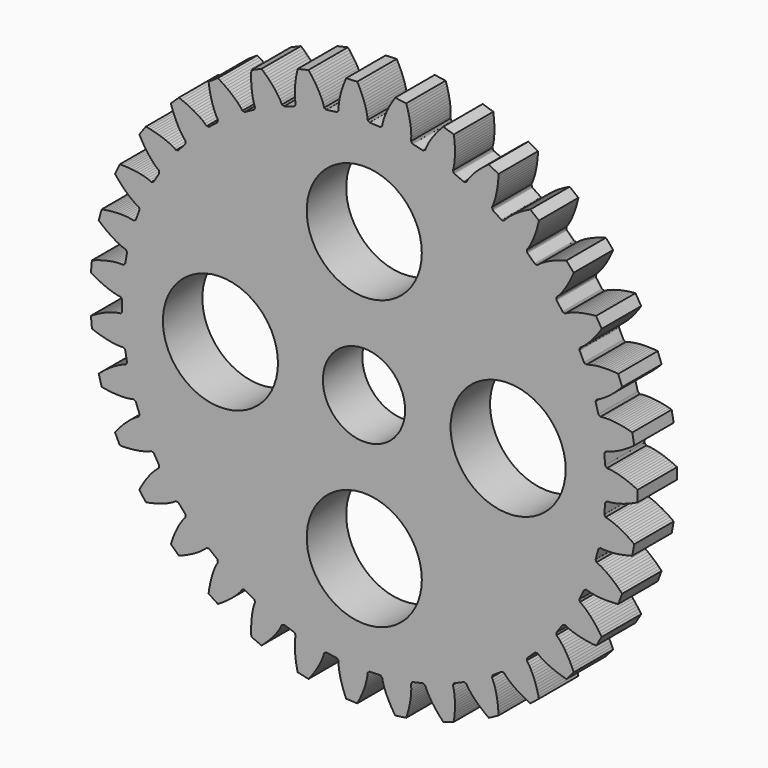
from build123d import *

# Parameters (mm, degrees)
F1_DEPTH = 3
F2_R     = 3.5
F3_DEPTH = 12.5


with BuildPart() as f1:
    # F0 (on Front) → F1 (new body)
    with BuildSketch(Plane.XZ):
        Polygon((14.600396, -1.623756), (14.655398, -1.012626), (14.660725, -0.991337), (14.673272, -0.970848), (14.693007, -0.951451), (14.719886, -0.933436), (14.755312, -0.88429), (14.895668, -0.879786), (15.03533, -0.864618), (15.174078, -0.842552), (15.311833, -0.814945), (15.448554, -0.782592), (15.584211, -0.746031), (15.718785, -0.705663), (15.852261, -0.661799), (15.984629, -0.614695), (16.115879, -0.564561), (16.246006, -0.511577), (16.375004, -0.455901), (16.502868, -0.397669), (16.629597, -0.337003), (16.629597, 0.337003), (16.502868, 0.397669), (16.375004, 0.455901), (16.246006, 0.511577), (16.115879, 0.564561), (15.984629, 0.614695), (15.852261, 0.661799), (15.718785, 0.705663), (15.584211, 0.746031), (15.448554, 0.782592), (15.311833, 0.814945), (15.174078, 0.842552), (15.03533, 0.864618), (14.895668, 0.879786), (14.755312, 0.88429), (14.719886, 0.933436), (14.693007, 0.951451), (14.673272, 0.970848), (14.660725, 0.991337), (14.655398, 1.012626), (14.600396, 1.623756), (14.601835, 1.645654), (14.610523, 1.668054), (14.626477, 1.690663), (14.649707, 1.713189), (14.675788, 1.76787), (14.813084, 1.797364), (14.947794, 1.837225), (15.080372, 1.883711), (15.210984, 1.935471), (15.339731, 1.991717), (15.466679, 2.051913), (15.591882, 2.115662), (15.715382, 2.182653), (15.837211, 2.252636), (15.957401, 2.3254), (16.075976, 2.400767), (16.192959, 2.478582), (16.308371, 2.558709), (16.422231, 2.641028), (16.301882, 3.304203), (16.166358, 3.341265), (16.030151, 3.375731), (15.893285, 3.407479), (15.755788, 3.436376), (15.617695, 3.462269), (15.479044, 3.484981), (15.339881, 3.504306), (15.200261, 3.519997), (15.060256, 3.531748), (14.919956, 3.539169), (14.779485, 3.541734), (14.639027, 3.538672), (14.498901, 3.528658), (14.359996, 3.508028), (14.316364, 3.550059), (14.2867, 3.562985), (14.263819, 3.578547), (14.247815, 3.596466), (14.238773, 3.616462), (14.075533, 4.207949), (14.073039, 4.229753), (14.077587, 4.253344), (14.089248, 4.278438), (14.108083, 4.30475), (14.123981, 4.363209), (14.253804, 4.416744), (14.379232, 4.480018), (14.501379, 4.54943), (14.62065, 4.62368), (14.737284, 4.70201), (14.851444, 4.783906), (14.963253, 4.868987), (15.072806, 4.956953), (15.180181, 5.047565), (15.285447, 5.14062), (15.388659, 5.235948), (15.489868, 5.333401), (15.589118, 5.432848), (15.686449, 5.534175), (15.44962, 6.165203), (15.309656, 6.177471), (15.169484, 6.187062), (15.029148, 6.193861), (14.888702, 6.197743), (14.748205, 6.198562), (14.607726, 6.196153), (14.467349, 6.190319), (14.327171, 6.180827), (14.187318, 6.16739), (14.047947, 6.149641), (13.909276, 6.127083), (13.771622, 6.09899), (13.635535, 6.064116), (13.502546, 6.019015), (13.452111, 6.05258), (13.420616, 6.060002), (13.395324, 6.071228), (13.376377, 6.086001), (13.36391, 6.104062), (13.097679, 6.656896), (13.091332, 6.677904), (13.091595, 6.701928), (13.098587, 6.728701), (13.112421, 6.757952), (13.117626, 6.818312), (13.235804, 6.894167), (13.347918, 6.97882), (13.455708, 7.068926), (13.559804, 7.16328), (13.660578, 7.261177), (13.75828, 7.362141), (13.8531, 7.465819), (13.945185, 7.571933), (14.034656, 7.680261), (14.121614, 7.790617), (14.206146, 7.902842), (14.288328, 8.0168), (14.368226, 8.132371), (14.4459, 8.249448), (14.100203, 8.828049), (13.960298, 8.815128), (13.820665, 8.799535), (13.681371, 8.781168), (13.542489, 8.75991), (13.404103, 8.735629), (13.266313, 8.708175), (13.129232, 8.677369), (12.993003, 8.643), (12.857796, 8.604808), (12.723834, 8.562458), (12.591419, 8.515501), (12.460994, 8.463281), (12.333321, 8.404669), (12.210522, 8.336547), (12.154904, 8.360566), (12.12259, 8.362245), (12.0957, 8.368775), (12.07442, 8.379928), (12.058928, 8.395471), (11.698264, 8.891884), (11.688268, 8.911421), (11.684236, 8.935106), (11.686336, 8.962698), (11.694725, 8.993949), (11.689068, 9.054267), (11.791802, 9.150005), (11.886999, 9.253317), (11.976967, 9.361222), (12.062544, 9.472646), (12.144218, 9.586964), (12.222322, 9.703751), (12.297106, 9.822693), (12.368764, 9.943544), (12.437454, 10.066107), (12.50331, 10.190217), (12.566445, 10.315732), (12.626958, 10.442533), (12.684936, 10.570513), (12.740457, 10.699578), (12.297002, 11.207153), (12.161652, 11.169459), (12.027048, 11.129185), (11.893272, 11.086241), (11.760417, 11.040526), (11.628591, 10.991925), (11.497917, 10.940309), (11.368541, 10.885522), (11.240637, 10.827381), (11.114423, 10.765659), (10.990176, 10.70007), (10.868273, 10.630225), (10.749267, 10.555555), (10.634112, 10.475088), (10.525451, 10.386134), (10.466438, 10.399837), (10.434343, 10.395719), (10.406719, 10.397342), (10.38379, 10.404516), (10.365771, 10.417044), (9.922264, 10.84108), (9.908941, 10.858518), (9.900745, 10.881103), (9.897885, 10.908626), (9.900558, 10.940873), (9.884222, 10.999212), (9.968211, 11.111755), (10.043431, 11.230404), (10.112686, 11.35264), (10.176992, 11.477554), (10.236941, 11.604618), (10.292937, 11.733474), (10.345281, 11.863858), (10.394209, 11.995562), (10.439911, 12.12842), (10.482548, 12.262294), (10.522256, 12.397066), (10.559155, 12.532634), (10.59335, 12.66891), (10.624934, 12.805814), (10.097974, 13.226051), (9.97153, 13.164795), (9.84628, 13.101133), (9.722322, 13.034992), (9.599765, 12.96629), (9.478735, 12.894932), (9.359377, 12.820812), (9.241863, 12.743805), (9.126396, 12.66376), (9.013231, 12.580494), (8.902692, 12.493774), (8.795219, 12.403285), (8.691459, 12.308565), (8.592523, 12.20883), (8.501491, 12.101903), (8.440979, 12.104848), (8.410135, 12.095066), (8.382666, 12.091731), (8.358824, 12.094695), (8.338858, 12.103805), (7.826764, 12.441835), (7.810541, 12.456614), (7.798445, 12.477372), (7.790715, 12.503942), (7.787588, 12.536148), (7.761097, 12.590632), (7.823641, 12.716364), (7.876467, 12.846537), (7.922783, 12.979174), (7.963751, 13.113563), (8.000049, 13.24929), (8.032137, 13.386074), (8.060359, 13.523708), (8.084983, 13.662033), (8.106228, 13.800916), (8.124276, 13.940252), (8.139282, 14.079948), (8.151381, 14.219926), (8.160693, 14.360117), (8.167324, 14.500461), (7.573797, 14.819852), (7.460323, 14.737003), (7.348453, 14.652), (7.238297, 14.564789), (7.129977, 14.475307), (7.023633, 14.383485), (6.919428, 14.289244), (6.817552, 14.192491), (6.718234, 14.093115), (6.621755, 13.990981), (6.528477, 13.885917), (6.438889, 13.777692), (6.353709, 13.665968), (6.274171, 13.55017), (6.203694, 13.428707), (6.143629, 13.4208), (6.115028, 13.405667), (6.088595, 13.397481), (6.064607, 13.396141), (6.043336, 13.401538), (5.479114, 13.642699), (5.460512, 13.654343), (5.444904, 13.672608), (5.432555, 13.697371), (5.423727, 13.728501), (5.387933, 13.77738), (5.427022, 13.912258), (5.455755, 14.049772), (5.477644, 14.188548), (5.493958, 14.328092), (5.505437, 14.468119), (5.512585, 14.608434), (5.515778, 14.748896), (5.515308, 14.889394), (5.511413, 15.029839), (5.504291, 15.170158), (5.494112, 15.310289), (5.481024, 15.450178), (5.465154, 15.589779), (5.446619, 15.729052), (4.805601, 15.937331), (4.708743, 15.835552), (4.613849, 15.73194), (4.521035, 15.626461), (4.430433, 15.519076), (4.342194, 15.409742), (4.256491, 15.298409), (4.173528, 15.185019), (4.09355, 15.069507), (4.016858, 14.951787), (3.943839, 14.831756), (3.875015, 14.709274), (3.811154, 14.584136), (3.75357, 14.455996), (3.705914, 14.323901), (3.648226, 14.305396), (3.622787, 14.2854), (3.598241, 14.272625), (3.574878, 14.267023), (3.552984, 14.268536), (2.954768, 14.405075), (2.934387, 14.413211), (2.915768, 14.428395), (2.899195, 14.450555), (2.884951, 14.479609), (2.841005, 14.521311), (2.855382, 14.661001), (2.859099, 14.801436), (2.855857, 14.94189), (2.846992, 15.082104), (2.833284, 15.22193), (2.815264, 15.361267), (2.793325, 15.500042), (2.767775, 15.638198), (2.738865, 15.775691), (2.706803, 15.912483), (2.671766, 16.048544), (2.63391, 16.183848), (2.593368, 16.318372), (2.550263, 16.452097), (1.882356, 16.542571), (1.805229, 16.425133), (1.73036, 16.306242), (1.657872, 16.185886), (1.587901, 16.064049), (1.520602, 15.940716), (1.456156, 15.815869), (1.394772, 15.689489), (1.336705, 15.561552), (1.282265, 15.43203), (1.231852, 15.30089), (1.186004, 15.168087), (1.145513, 15.033557), (1.111735, 14.897194), (1.088432, 14.758713), (1.034975, 14.730205), (1.013515, 14.705988), (0.991644, 14.689035), (0.969657, 14.679352), (0.947845, 14.676931), (0.334863, 14.70446), (0.313356, 14.708826), (0.292325, 14.720442), (0.272062, 14.739286), (0.252859, 14.76533), (0.202173, 14.798515), (0.191376, 14.938528), (0.169958, 15.077369), (0.141689, 15.214987), (0.10793, 15.351365), (0.069475, 15.486496), (0.026865, 15.620377), (-0.0195, 15.753004), (-0.069308, 15.884378), (-0.122304, 16.014499), (-0.178276, 16.143368), (-0.237044, 16.270986), (-0.298452, 16.397357), (-0.362362, 16.52248), (-0.428652, 16.646359), (-1.10198, 16.61612), (-1.156898, 16.486797), (-1.209335, 16.356449), (-1.259168, 16.225083), (-1.30626, 16.09271), (-1.350455, 15.959342), (-1.391574, 15.824995), (-1.429405, 15.689685), (-1.463695, 15.553435), (-1.494132, 15.416275), (-1.520319, 15.27824), (-1.541718, 15.139385), (-1.557537, 14.999787), (-1.566423, 14.859585), (-1.564626, 14.719168), (-1.612133, 14.681573), (-1.628924, 14.653913), (-1.647416, 14.633328), (-1.667321, 14.619874), (-1.68835, 14.613598), (-2.296397, 14.531232), (-2.318338, 14.531688), (-2.341105, 14.539361), (-2.364407, 14.554285), (-2.387952, 14.576481), (-2.443749, 14.600083), (-2.479372, 14.735917), (-2.525237, 14.868703), (-2.577624, 14.999062), (-2.635192, 15.127221), (-2.697158, 15.253314), (-2.762988, 15.377434), (-2.83229, 15.499651), (-2.904755, 15.620021), (-2.980133, 15.738588), (-3.058216, 15.855391), (-3.138827, 15.970466), (-3.221812, 16.08384), (-3.307037, 16.195541), (-3.394381, 16.305593), (-4.051489, 16.155612), (-4.082434, 16.018562), (-4.110753, 15.880945), (-4.136329, 15.742793), (-4.159028, 15.604138), (-4.178699, 15.465023), (-4.195168, 15.325492), (-4.208231, 15.185602), (-4.217641, 15.045419), (-4.223099, 14.905028), (-4.224218, 14.764536), (-4.220479, 14.624091), (-4.211118, 14.483912), (-4.194827, 14.344376), (-4.167986, 14.206537), (-4.208017, 14.161063), (-4.2196, 14.130849), (-4.234119, 14.107293), (-4.251302, 14.090501), (-4.270872, 14.080571), (-4.854441, 13.890958), (-4.87611, 13.887489), (-4.899881, 13.890974), (-4.925474, 13.901497), (-4.952603, 13.919132), (-5.011718, 13.932392), (-5.071023, 14.059683), (-5.139861, 14.182145), (-5.214683, 14.301055), (-5.294209, 14.416875), (-5.377693, 14.529877), (-5.464629, 14.640248), (-5.554639, 14.748127), (-5.647433, 14.853623), (-5.74277, 14.956825), (-5.840455, 15.05781), (-5.940318, 15.156641), (-6.042213, 15.253376), (-6.146013, 15.348064), (-6.251604, 15.440751), (-6.871372, 15.17585), (-6.877348, 15.035477), (-6.88064, 14.895015), (-6.881136, 14.754516), (-6.878713, 14.614037), (-6.873228, 14.473644), (-6.864518, 14.333415), (-6.852392, 14.193441), (-6.836621, 14.053831), (-6.816923, 13.914721), (-6.792939, 13.776287), (-6.764182, 13.638767), (-6.729942, 13.502512), (-6.688998, 13.368127), (-6.637976, 13.237296), (-6.669244, 13.185405), (-6.675246, 13.153609), (-6.685325, 13.127839), (-6.699234, 13.108248), (-6.716716, 13.094983), (-7.25705, 12.804218), (-7.277752, 12.796935), (-7.301763, 12.796119), (-7.328823, 12.801903), (-7.358666, 12.814411), (-7.419198, 12.816902), (-7.500279, 12.931558), (-7.589877, 13.039761), (-7.684728, 13.1434), (-7.783657, 13.243159), (-7.885977, 13.339438), (-7.991223, 13.432513), (-8.09905, 13.522586), (-8.209188, 13.609818), (-8.321422, 13.694338), (-8.435568, 13.776258), (-8.551473, 13.855669), (-8.669003, 13.932656), (-8.788042, 14.007288), (-8.908486, 14.079632), (-9.470994, 13.708324), (-9.45181, 13.569139), (-9.429969, 13.430347), (-9.40537, 13.292017), (-9.377902, 13.154228), (-9.347437, 13.017071), (-9.313829, 12.880651), (-9.276904, 12.745091), (-9.236458, 12.61054), (-9.192238, 12.477183), (-9.14392, 12.345257), (-9.091071, 12.215081), (-9.033051, 12.08713), (-8.96877, 11.962216), (-8.895207, 11.842597), (-8.916707, 11.785957), (-8.916935, 11.7536), (-8.922251, 11.726444), (-8.932438, 11.704686), (-8.947271, 11.688512), (-9.427003, 11.305939), (-9.446072, 11.295076), (-9.469552, 11.289987), (-9.49721, 11.290846), (-9.528806, 11.297824), (-9.58881, 11.289467), (-9.689061, 11.387803), (-9.796539, 11.478269), (-9.908372, 11.563305), (-10.023523, 11.643797), (-10.141391, 11.720259), (-10.261564, 11.793045), (-10.383741, 11.862418), (-10.507686, 11.928581), (-10.633207, 11.991704), (-10.760146, 12.051925), (-10.888368, 12.109365), (-11.017756, 12.164128), (-11.148209, 12.216306), (-11.279634, 12.265981), (-11.766803, 11.8002), (-11.723075, 11.666678), (-11.676802, 11.534016), (-11.627899, 11.402302), (-11.576269, 11.271632), (-11.521804, 11.142119), (-11.464376, 11.013892), (-11.40384, 10.887104), (-11.340019, 10.761937), (-11.272698, 10.638619), (-11.2016, 10.51744), (-11.126356, 10.398793), (-11.046422, 10.283258), (-10.96087, 10.171829), (-10.867131, 10.067267), (-10.878171, 10.007699), (-10.872618, 9.975821), (-10.873, 9.948153), (-10.879138, 9.924925), (-10.890845, 9.906362), (-11.294556, 9.444278), (-11.311379, 9.430185), (-11.333573, 9.420985), (-11.36094, 9.416892), (-11.393275, 9.418116), (-11.450822, 9.399179), (-11.56702, 9.478034), (-11.688925, 9.547855), (-11.814144, 9.611557), (-11.941817, 9.670193), (-12.071443, 9.724381), (-12.202682, 9.77454), (-12.335283, 9.820982), (-12.469049, 9.863951), (-12.603824, 9.903646), (-12.739476, 9.940234), (-12.875894, 9.973856), (-13.012981, 10.004636), (-13.150654, 10.032682), (-13.288837, 10.058092), (-13.685009, 9.512809), (-13.618141, 9.38924), (-13.548925, 9.266973), (-13.477289, 9.146107), (-13.403157, 9.026756), (-13.326442, 8.909049), (-13.247041, 8.793137), (-13.164839, 8.679196), (-13.079694, 8.567436), (-12.991435, 8.458121), (-12.899843, 8.351584), (-12.804623, 8.248279), (-12.705344, 8.148873), (-12.60127, 8.054511), (-12.490367, 7.968368), (-12.490594, 7.907785), (-12.479438, 7.877411), (-12.474874, 7.850119), (-12.476766, 7.826168), (-12.48497, 7.805814), (-12.799685, 7.27907), (-12.813721, 7.2622), (-12.833916, 7.249184), (-12.860112, 7.240271), (-12.892145, 7.235702), (-12.945387, 7.206793), (-13.073798, 7.263634), (-13.20621, 7.310565), (-13.340791, 7.350885), (-13.476883, 7.385782), (-13.614101, 7.415953), (-13.752187, 7.441872), (-13.890949, 7.463891), (-14.030239, 7.482285), (-14.169936, 7.497277), (-14.309941, 7.509056), (-14.45017, 7.517779), (-14.59055, 7.523586), (-14.731018, 7.526599), (-14.871518, 7.526927), (-15.163958, 6.919668), (-15.076102, 6.810025), (-14.986166, 6.702081), (-14.8941, 6.595949), (-14.799848, 6.491752), (-14.703348, 6.389636), (-14.604527, 6.289764), (-14.5033, 6.192331), (-14.399569, 6.097571), (-14.293209, 6.005771), (-14.184066, 5.917301), (-14.07193, 5.832659), (-13.956497, 5.752577), (-13.837247, 5.678315), (-13.712745, 5.613358), (-13.702151, 5.553709), (-13.68575, 5.525815), (-13.676386, 5.499776), (-13.673971, 5.475873), (-13.678409, 5.45438), (-13.894013, 4.879907), (-13.904811, 4.860802), (-13.922357, 4.844389), (-13.946541, 4.830942), (-13.977244, 4.820726), (-14.024467, 4.782776), (-14.160964, 4.815774), (-14.299628, 4.838308), (-14.439246, 4.853949), (-14.579382, 4.863986), (-14.719783, 4.869171), (-14.860277, 4.870017), (-15.000741, 4.866905), (-15.141077, 4.860132), (-15.281206, 4.84994), (-15.421064, 4.83653), (-15.560597, 4.820074), (-15.699758, 4.800722), (-15.838506, 4.778606), (-15.976807, 4.753841), (-16.156118, 4.104123), (-16.050095, 4.01193), (-15.94233, 3.921779), (-15.832793, 3.833791), (-15.721452, 3.748099), (-15.608269, 3.664854), (-15.493203, 3.584232), (-15.376206, 3.50644), (-15.257221, 3.431725), (-15.136179, 3.360392), (-15.012993, 3.292831), (-14.887546, 3.229572), (-14.759669, 3.171389), (-14.629075, 3.119613), (-14.494975, 3.077931), (-14.4739, 3.021131), (-14.452783, 2.996614), (-14.43892, 2.972666), (-14.432275, 2.949578), (-14.432804, 2.927639), (-14.542367, 2.323899), (-14.54958, 2.303173), (-14.563914, 2.283892), (-14.585308, 2.266342), (-14.613693, 2.250808), (-14.653382, 2.205036), (-14.793577, 2.213131), (-14.934037, 2.210544), (-15.074204, 2.201004), (-15.213879, 2.185857), (-15.352949, 2.165889), (-15.491337, 2.141636), (-15.628988, 2.113493), (-15.765859, 2.081771), (-15.901916, 2.046721), (-16.037132, 2.008554), (-16.171485, 1.967448), (-16.304954, 1.923559), (-16.437524, 1.877023), (-16.56918, 1.827962), (-16.629597, 1.156669), (-16.508817, 1.084888), (-16.386687, 1.015428), (-16.2632, 0.948413), (-16.138346, 0.883978), (-16.012118, 0.822281), (-15.884506, 0.763501), (-15.755498, 0.707849), (-15.625085, 0.65558), (-15.493251, 0.607006), (-15.359981, 0.562527), (-15.225255, 0.522684), (-15.089044, 0.488269), (-14.951303, 0.460643), (-14.811916, 0.443576), (-14.781038, 0.391452), (-14.755883, 0.3711), (-14.737966, 0.350012), (-14.727306, 0.328481), (-14.723909, 0.3068), (-14.723909, -0.3068), (-14.727306, -0.328481), (-14.737966, -0.350012), (-14.755883, -0.3711), (-14.781038, -0.391452), (-14.811916, -0.443576), (-14.951303, -0.460643), (-15.089044, -0.488269), (-15.225255, -0.522684), (-15.359981, -0.562527), (-15.493251, -0.607006), (-15.625085, -0.65558), (-15.755498, -0.707849), (-15.884506, -0.763501), (-16.012118, -0.822281), (-16.138346, -0.883978), (-16.2632, -0.948413), (-16.386687, -1.015428), (-16.508817, -1.084888), (-16.629597, -1.156669), (-16.56918, -1.827962), (-16.437524, -1.877023), (-16.304954, -1.923559), (-16.171485, -1.967448), (-16.037132, -2.008554), (-15.901916, -2.046721), (-15.765859, -2.081771), (-15.628988, -2.113493), (-15.491337, -2.141636), (-15.352949, -2.165889), (-15.213879, -2.185857), (-15.074204, -2.201004), (-14.934037, -2.210544), (-14.793577, -2.213131), (-14.653382, -2.205036), (-14.613693, -2.250808), (-14.585308, -2.266342), (-14.563914, -2.283892), (-14.54958, -2.303173), (-14.542367, -2.323899), (-14.432804, -2.927639), (-14.432275, -2.949578), (-14.43892, -2.972666), (-14.452783, -2.996614), (-14.4739, -3.021131), (-14.494975, -3.077931), (-14.629075, -3.119613), (-14.759669, -3.171389), (-14.887546, -3.229572), (-15.012993, -3.292831), (-15.136179, -3.360392), (-15.257221, -3.431725), (-15.376206, -3.50644), (-15.493203, -3.584232), (-15.608269, -3.664854), (-15.721452, -3.748099), (-15.832793, -3.833791), (-15.94233, -3.921779), (-16.050095, -4.01193), (-16.156118, -4.104123), (-15.976807, -4.753841), (-15.838506, -4.778606), (-15.699758, -4.800722), (-15.560597, -4.820074), (-15.421064, -4.83653), (-15.281206, -4.84994), (-15.141077, -4.860132), (-15.000741, -4.866905), (-14.860277, -4.870017), (-14.719783, -4.869171), (-14.579382, -4.863986), (-14.439246, -4.853949), (-14.299628, -4.838308), (-14.160964, -4.815774), (-14.024467, -4.782776), (-13.977244, -4.820726), (-13.946541, -4.830942), (-13.922357, -4.844389), (-13.904811, -4.860802), (-13.894013, -4.879907), (-13.678409, -5.45438), (-13.673971, -5.475873), (-13.676386, -5.499776), (-13.68575, -5.525815), (-13.702151, -5.553709), (-13.712745, -5.613358), (-13.837247, -5.678315), (-13.956497, -5.752577), (-14.07193, -5.832659), (-14.184066, -5.917301), (-14.293209, -6.005771), (-14.399569, -6.097571), (-14.5033, -6.192331), (-14.604527, -6.289764), (-14.703348, -6.389636), (-14.799848, -6.491752), (-14.8941, -6.595949), (-14.986166, -6.702081), (-15.076102, -6.810025), (-15.163958, -6.919668), (-14.871518, -7.526927), (-14.731018, -7.526599), (-14.59055, -7.523586), (-14.45017, -7.517779), (-14.309941, -7.509056), (-14.169936, -7.497277), (-14.030239, -7.482285), (-13.890949, -7.463891), (-13.752187, -7.441872), (-13.614101, -7.415953), (-13.476883, -7.385782), (-13.340791, -7.350885), (-13.20621, -7.310565), (-13.073798, -7.263634), (-12.945387, -7.206793), (-12.892145, -7.235702), (-12.860112, -7.240271), (-12.833916, -7.249184), (-12.813721, -7.2622), (-12.799685, -7.27907), (-12.48497, -7.805814), (-12.476766, -7.826168), (-12.474874, -7.850119), (-12.479438, -7.877411), (-12.490594, -7.907785), (-12.490367, -7.968368), (-12.60127, -8.054511), (-12.705344, -8.148873), (-12.804623, -8.248279), (-12.899843, -8.351584), (-12.991435, -8.458121), (-13.079694, -8.567436), (-13.164839, -8.679196), (-13.247041, -8.793137), (-13.326442, -8.909049), (-13.403157, -9.026756), (-13.477289, -9.146107), (-13.548925, -9.266973), (-13.618141, -9.38924), (-13.685009, -9.512809), (-13.288837, -10.058092), (-13.150654, -10.032682), (-13.012981, -10.004636), (-12.875894, -9.973856), (-12.739476, -9.940234), (-12.603824, -9.903646), (-12.469049, -9.863951), (-12.335283, -9.820982), (-12.202682, -9.77454), (-12.071443, -9.724381), (-11.941817, -9.670193), (-11.814144, -9.611557), (-11.688925, -9.547855), (-11.56702, -9.478034), (-11.450822, -9.399179), (-11.393275, -9.418116), (-11.36094, -9.416892), (-11.333573, -9.420985), (-11.311379, -9.430185), (-11.294556, -9.444278), (-10.890845, -9.906362), (-10.879138, -9.924925), (-10.873, -9.948153), (-10.872618, -9.975821), (-10.878171, -10.007699), (-10.867131, -10.067267), (-10.96087, -10.171829), (-11.046422, -10.283258), (-11.126356, -10.398793), (-11.2016, -10.51744), (-11.272698, -10.638619), (-11.340019, -10.761937), (-11.40384, -10.887104), (-11.464376, -11.013892), (-11.521804, -11.142119), (-11.576269, -11.271632), (-11.627899, -11.402302), (-11.676802, -11.534016), (-11.723075, -11.666678), (-11.766803, -11.8002), (-11.279634, -12.265981), (-11.148209, -12.216306), (-11.017756, -12.164128), (-10.888368, -12.109365), (-10.760146, -12.051925), (-10.633207, -11.991704), (-10.507686, -11.928581), (-10.383741, -11.862418), (-10.261564, -11.793045), (-10.141391, -11.720259), (-10.023523, -11.643797), (-9.908372, -11.563305), (-9.796539, -11.478269), (-9.689061, -11.387803), (-9.58881, -11.289467), (-9.528806, -11.297824), (-9.49721, -11.290846), (-9.469552, -11.289987), (-9.446072, -11.295076), (-9.427003, -11.305939), (-8.947271, -11.688512), (-8.932438, -11.704686), (-8.922251, -11.726444), (-8.916935, -11.7536), (-8.916707, -11.785957), (-8.895207, -11.842597), (-8.96877, -11.962216), (-9.033051, -12.08713), (-9.091071, -12.215081), (-9.14392, -12.345257), (-9.192238, -12.477183), (-9.236458, -12.61054), (-9.276904, -12.745091), (-9.313829, -12.880651), (-9.347437, -13.017071), (-9.377902, -13.154228), (-9.40537, -13.292017), (-9.429969, -13.430347), (-9.45181, -13.569139), (-9.470994, -13.708324), (-8.908486, -14.079632), (-8.788042, -14.007288), (-8.669003, -13.932656), (-8.551473, -13.855669), (-8.435568, -13.776258), (-8.321422, -13.694338), (-8.209188, -13.609818), (-8.09905, -13.522586), (-7.991223, -13.432513), (-7.885977, -13.339438), (-7.783657, -13.243159), (-7.684728, -13.1434), (-7.589877, -13.039761), (-7.500279, -12.931558), (-7.419198, -12.816902), (-7.358666, -12.814411), (-7.328823, -12.801903), (-7.301763, -12.796119), (-7.277752, -12.796935), (-7.25705, -12.804218), (-6.716716, -13.094983), (-6.699234, -13.108248), (-6.685325, -13.127839), (-6.675246, -13.153609), (-6.669244, -13.185405), (-6.637976, -13.237296), (-6.688998, -13.368127), (-6.729942, -13.502512), (-6.764182, -13.638767), (-6.792939, -13.776287), (-6.816923, -13.914721), (-6.836621, -14.053831), (-6.852392, -14.193441), (-6.864518, -14.333415), (-6.873228, -14.473644), (-6.878713, -14.614037), (-6.881136, -14.754516), (-6.88064, -14.895015), (-6.877348, -15.035477), (-6.871372, -15.17585), (-6.251604, -15.440751), (-6.146013, -15.348064), (-6.042213, -15.253376), (-5.940318, -15.156641), (-5.840455, -15.05781), (-5.74277, -14.956825), (-5.647433, -14.853623), (-5.554639, -14.748127), (-5.464629, -14.640248), (-5.377693, -14.529877), (-5.294209, -14.416875), (-5.214683, -14.301055), (-5.139861, -14.182145), (-5.071023, -14.059683), (-5.011718, -13.932392), (-4.952603, -13.919132), (-4.925474, -13.901497), (-4.899881, -13.890974), (-4.87611, -13.887489), (-4.854441, -13.890958), (-4.270872, -14.080571), (-4.251302, -14.090501), (-4.234119, -14.107293), (-4.2196, -14.130849), (-4.208017, -14.161063), (-4.167986, -14.206537), (-4.194827, -14.344376), (-4.211118, -14.483912), (-4.220479, -14.624091), (-4.224218, -14.764536), (-4.223099, -14.905028), (-4.217641, -15.045419), (-4.208231, -15.185602), (-4.195168, -15.325492), (-4.178699, -15.465023), (-4.159028, -15.604138), (-4.136329, -15.742793), (-4.110753, -15.880945), (-4.082434, -16.018562), (-4.051489, -16.155612), (-3.394381, -16.305593), (-3.307037, -16.195541), (-3.221812, -16.08384), (-3.138827, -15.970466), (-3.058216, -15.855391), (-2.980133, -15.738588), (-2.904755, -15.620021), (-2.83229, -15.499651), (-2.762988, -15.377434), (-2.697158, -15.253314), (-2.635192, -15.127221), (-2.577624, -14.999062), (-2.525237, -14.868703), (-2.479372, -14.735917), (-2.443749, -14.600083), (-2.387952, -14.576481), (-2.364407, -14.554285), (-2.341105, -14.539361), (-2.318338, -14.531688), (-2.296397, -14.531232), (-1.68835, -14.613598), (-1.667321, -14.619874), (-1.647416, -14.633328), (-1.628924, -14.653913), (-1.612133, -14.681573), (-1.564626, -14.719168), (-1.566423, -14.859585), (-1.557537, -14.999787), (-1.541718, -15.139385), (-1.520319, -15.27824), (-1.494132, -15.416275), (-1.463695, -15.553435), (-1.429405, -15.689685), (-1.391574, -15.824995), (-1.350455, -15.959342), (-1.30626, -16.09271), (-1.259168, -16.225083), (-1.209335, -16.356449), (-1.156898, -16.486797), (-1.10198, -16.61612), (-0.428652, -16.646359), (-0.362362, -16.52248), (-0.298452, -16.397357), (-0.237044, -16.270986), (-0.178276, -16.143368), (-0.122304, -16.014499), (-0.069308, -15.884378), (-0.0195, -15.753004), (0.026865, -15.620377), (0.069475, -15.486496), (0.10793, -15.351365), (0.141689, -15.214987), (0.169958, -15.077369), (0.191376, -14.938528), (0.202173, -14.798515), (0.252859, -14.76533), (0.272062, -14.739286), (0.292325, -14.720442), (0.313356, -14.708826), (0.334863, -14.70446), (0.947845, -14.676931), (0.969657, -14.679352), (0.991644, -14.689035), (1.013515, -14.705988), (1.034975, -14.730205), (1.088432, -14.758713), (1.111735, -14.897194), (1.145513, -15.033557), (1.186004, -15.168087), (1.231852, -15.30089), (1.282265, -15.43203), (1.336705, -15.561552), (1.394772, -15.689489), (1.456156, -15.815869), (1.520602, -15.940716), (1.587901, -16.064049), (1.657872, -16.185886), (1.73036, -16.306242), (1.805229, -16.425133), (1.882356, -16.542571), (2.550263, -16.452097), (2.593368, -16.318372), (2.63391, -16.183848), (2.671766, -16.048544), (2.706803, -15.912483), (2.738865, -15.775691), (2.767775, -15.638198), (2.793325, -15.500042), (2.815264, -15.361267), (2.833284, -15.22193), (2.846992, -15.082104), (2.855857, -14.94189), (2.859099, -14.801436), (2.855382, -14.661001), (2.841005, -14.521311), (2.884951, -14.479609), (2.899195, -14.450555), (2.915768, -14.428395), (2.934387, -14.413211), (2.954768, -14.405075), (3.552984, -14.268536), (3.574878, -14.267023), (3.598241, -14.272625), (3.622787, -14.2854), (3.648226, -14.305396), (3.705914, -14.323901), (3.75357, -14.455996), (3.811154, -14.584136), (3.875015, -14.709274), (3.943839, -14.831756), (4.016858, -14.951787), (4.09355, -15.069507), (4.173528, -15.185019), (4.256491, -15.298409), (4.342194, -15.409742), (4.430433, -15.519076), (4.521035, -15.626461), (4.613849, -15.73194), (4.708743, -15.835552), (4.805601, -15.937331), (5.446619, -15.729052), (5.465154, -15.589779), (5.481024, -15.450178), (5.494112, -15.310289), (5.504291, -15.170158), (5.511413, -15.029839), (5.515308, -14.889394), (5.515778, -14.748896), (5.512585, -14.608434), (5.505437, -14.468119), (5.493958, -14.328092), (5.477644, -14.188548), (5.455755, -14.049772), (5.427022, -13.912258), (5.387933, -13.77738), (5.423727, -13.728501), (5.432555, -13.697371), (5.444904, -13.672608), (5.460512, -13.654343), (5.479114, -13.642699), (6.043336, -13.401538), (6.064607, -13.396141), (6.088595, -13.397481), (6.115028, -13.405667), (6.143629, -13.4208), (6.203694, -13.428707), (6.274171, -13.55017), (6.353709, -13.665968), (6.438889, -13.777692), (6.528477, -13.885917), (6.621755, -13.990981), (6.718234, -14.093115), (6.817552, -14.192491), (6.919428, -14.289244), (7.023633, -14.383485), (7.129977, -14.475307), (7.238297, -14.564789), (7.348453, -14.652), (7.460323, -14.737003), (7.573797, -14.819852), (8.167324, -14.500461), (8.160693, -14.360117), (8.151381, -14.219926), (8.139282, -14.079948), (8.124276, -13.940252), (8.106228, -13.800916), (8.084983, -13.662033), (8.060359, -13.523708), (8.032137, -13.386074), (8.000049, -13.24929), (7.963751, -13.113563), (7.922783, -12.979174), (7.876467, -12.846537), (7.823641, -12.716364), (7.761097, -12.590632), (7.787588, -12.536148), (7.790715, -12.503942), (7.798445, -12.477372), (7.810541, -12.456614), (7.826764, -12.441835), (8.338858, -12.103805), (8.358824, -12.094695), (8.382666, -12.091731), (8.410135, -12.095066), (8.440979, -12.104848), (8.501491, -12.101903), (8.592523, -12.20883), (8.691459, -12.308565), (8.795219, -12.403285), (8.902692, -12.493774), (9.013231, -12.580494), (9.126396, -12.66376), (9.241863, -12.743805), (9.359377, -12.820812), (9.478735, -12.894932), (9.599765, -12.96629), (9.722322, -13.034992), (9.84628, -13.101133), (9.97153, -13.164795), (10.097974, -13.226051), (10.624934, -12.805814), (10.59335, -12.66891), (10.559155, -12.532634), (10.522256, -12.397066), (10.482548, -12.262294), (10.439911, -12.12842), (10.394209, -11.995562), (10.345281, -11.863858), (10.292937, -11.733474), (10.236941, -11.604618), (10.176992, -11.477554), (10.112686, -11.35264), (10.043431, -11.230404), (9.968211, -11.111755), (9.884222, -10.999212), (9.900558, -10.940873), (9.897885, -10.908626), (9.900745, -10.881103), (9.908941, -10.858518), (9.922264, -10.84108), (10.365771, -10.417044), (10.38379, -10.404516), (10.406719, -10.397342), (10.434343, -10.395719), (10.466438, -10.399837), (10.525451, -10.386134), (10.634112, -10.475088), (10.749267, -10.555555), (10.868273, -10.630225), (10.990176, -10.70007), (11.114423, -10.765659), (11.240637, -10.827381), (11.368541, -10.885522), (11.497917, -10.940309), (11.628591, -10.991925), (11.760417, -11.040526), (11.893272, -11.086241), (12.027048, -11.129185), (12.161652, -11.169459), (12.297002, -11.207153), (12.740457, -10.699578), (12.684936, -10.570513), (12.626958, -10.442533), (12.566445, -10.315732), (12.50331, -10.190217), (12.437454, -10.066107), (12.368764, -9.943544), (12.297106, -9.822693), (12.222322, -9.703751), (12.144218, -9.586964), (12.062544, -9.472646), (11.976967, -9.361222), (11.886999, -9.253317), (11.791802, -9.150005), (11.689068, -9.054267), (11.694725, -8.993949), (11.686336, -8.962698), (11.684236, -8.935106), (11.688268, -8.911421), (11.698264, -8.891884), (12.058928, -8.395471), (12.07442, -8.379928), (12.0957, -8.368775), (12.12259, -8.362245), (12.154904, -8.360566), (12.210522, -8.336547), (12.333321, -8.404669), (12.460994, -8.463281), (12.591419, -8.515501), (12.723834, -8.562458), (12.857796, -8.604808), (12.993003, -8.643), (13.129232, -8.677369), (13.266313, -8.708175), (13.404103, -8.735629), (13.542489, -8.75991), (13.681371, -8.781168), (13.820665, -8.799535), (13.960298, -8.815128), (14.100203, -8.828049), (14.4459, -8.249448), (14.368226, -8.132371), (14.288328, -8.0168), (14.206146, -7.902842), (14.121614, -7.790617), (14.034656, -7.680261), (13.945185, -7.571933), (13.8531, -7.465819), (13.75828, -7.362141), (13.660578, -7.261177), (13.559804, -7.16328), (13.455708, -7.068926), (13.347918, -6.97882), (13.235804, -6.894167), (13.117626, -6.818312), (13.112421, -6.757952), (13.098587, -6.728701), (13.091595, -6.701928), (13.091332, -6.677904), (13.097679, -6.656896), (13.36391, -6.104062), (13.376377, -6.086001), (13.395324, -6.071228), (13.420616, -6.060002), (13.452111, -6.05258), (13.502546, -6.019015), (13.635535, -6.064116), (13.771622, -6.09899), (13.909276, -6.127083), (14.047947, -6.149641), (14.187318, -6.16739), (14.327171, -6.180827), (14.467349, -6.190319), (14.607726, -6.196153), (14.748205, -6.198562), (14.888702, -6.197743), (15.029148, -6.193861), (15.169484, -6.187062), (15.309656, -6.177471), (15.44962, -6.165203), (15.686449, -5.534175), (15.589118, -5.432848), (15.489868, -5.333401), (15.388659, -5.235948), (15.285447, -5.14062), (15.180181, -5.047565), (15.072806, -4.956953), (14.963253, -4.868987), (14.851444, -4.783906), (14.737284, -4.70201), (14.62065, -4.62368), (14.501379, -4.54943), (14.379232, -4.480018), (14.253804, -4.416744), (14.123981, -4.363209), (14.108083, -4.30475), (14.089248, -4.278438), (14.077587, -4.253344), (14.073039, -4.229753), (14.075533, -4.207949), (14.238773, -3.616462), (14.247815, -3.596466), (14.263819, -3.578547), (14.2867, -3.562985), (14.316364, -3.550059), (14.359996, -3.508028), (14.498901, -3.528658), (14.639027, -3.538672), (14.779485, -3.541734), (14.919956, -3.539169), (15.060256, -3.531748), (15.200261, -3.519997), (15.339881, -3.504306), (15.479044, -3.484981), (15.617695, -3.462269), (15.755788, -3.436376), (15.893285, -3.407479), (16.030151, -3.375731), (16.166358, -3.341265), (16.301882, -3.304203), (16.422231, -2.641028), (16.308371, -2.558709), (16.192959, -2.478582), (16.075976, -2.400767), (15.957401, -2.3254), (15.837211, -2.252636), (15.715382, -2.182653), (15.591882, -2.115662), (15.466679, -2.051913), (15.339731, -1.991717), (15.210984, -1.935471), (15.080372, -1.883711), (14.947794, -1.837225), (14.813084, -1.797364), (14.675788, -1.76787), (14.649707, -1.713189), (14.626477, -1.690663), (14.610523, -1.668054), (14.601835, -1.645654), align=None)
        with BuildLine():
            ThreePointArc((-2.518406, 0), (-0.018406, 2.5), (2.481594, 0))
            ThreePointArc((2.481594, 0), (-0.018406, -2.5), (-2.518406, 0))
        make_face(mode=Mode.SUBTRACT)
    extrude(amount=F1_DEPTH)


with BuildPart() as f3:
    # F2 (on Front) → F3 (new body, symmetric)
    with BuildSketch(Plane.XZ):
        with Locations((8.75127, 0)):
            Circle(F2_R)
        with Locations((0, 8.75127)):
            Circle(F2_R)
        with Locations((-8.75127, 0)):
            Circle(F2_R)
        with Locations((0, -8.75127)):
            Circle(F2_R)
    extrude(amount=F3_DEPTH, both=True)


with BuildPart() as f1_1:
    add(f1.part)

    # F4: cut F3
    add(f3.part, mode=Mode.SUBTRACT)


solid = f1_1.part
